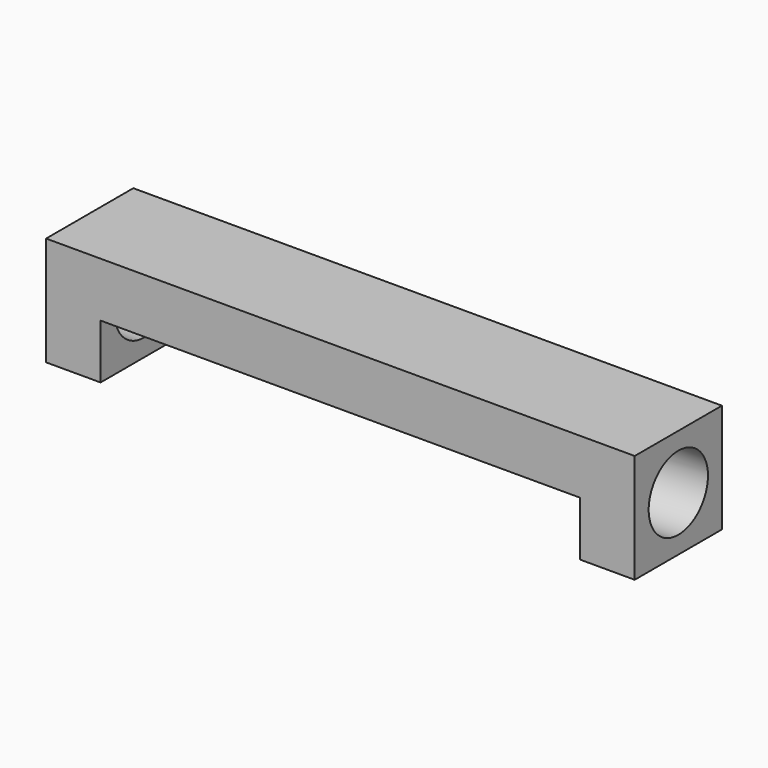
from build123d import *

# Parameters (mm, degrees)
SKETCH_W          = 27
SKETCH_H          = 5
PAD_DEPTH         = 2.5
SKETCH001_R       = 1.7
POCKET_DEPTH      = 13.501
POCKET_DEPTH_BACK = -13.501
SKETCH002_W       = 22
SKETCH002_H       = 3
POCKET001_DEPTH   = 2.5


with BuildPart() as part:
    # Sketch → Pad (new body, symmetric)
    with BuildSketch(Plane.XY):
        Rectangle(SKETCH_W, SKETCH_H)
    extrude(amount=PAD_DEPTH, both=True)

    # Sketch001 → Pocket (cut, two sides)
    with BuildSketch(Plane.YZ) as pocket_sk:
        Circle(SKETCH001_R)
    extrude(amount=-POCKET_DEPTH, mode=Mode.SUBTRACT)
    extrude(pocket_sk.sketch, amount=-POCKET_DEPTH_BACK, mode=Mode.SUBTRACT)

    # Sketch002 → Pocket001 (cut, symmetric)
    with BuildSketch(Plane.XZ):
        with Locations((0, -1.5)):
            Rectangle(SKETCH002_W, SKETCH002_H)
    extrude(amount=POCKET001_DEPTH, both=True, mode=Mode.SUBTRACT)


solid = part.part
